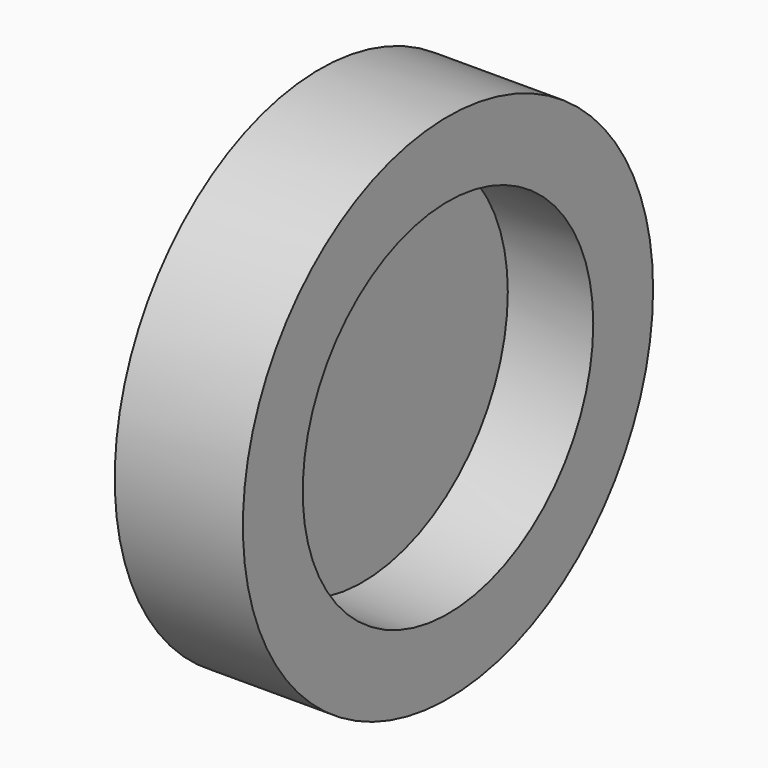
from build123d import *

# Parameters (mm, degrees)
F0_R     = 152.4
F0_R_2   = 107.95
F1_DEPTH = 76.2
F3_DEPTH = 25.4


with BuildPart() as f1:
    # F0 (on Right) → F1 (new body)
    with BuildSketch(Plane.YZ):
        with Locations((-57.45079, 23.160789)):
            Circle(F0_R)
        with Locations((-57.45079, 23.160789)):
            Circle(F0_R_2, mode=Mode.SUBTRACT)
    extrude(amount=F1_DEPTH)

    # F0 (on Right) → F3 (join)
    with BuildSketch(Plane.YZ):
        with Locations((-57.45079, 23.160789)):
            Circle(F0_R_2)
    extrude(amount=F3_DEPTH)


solid = f1.part
